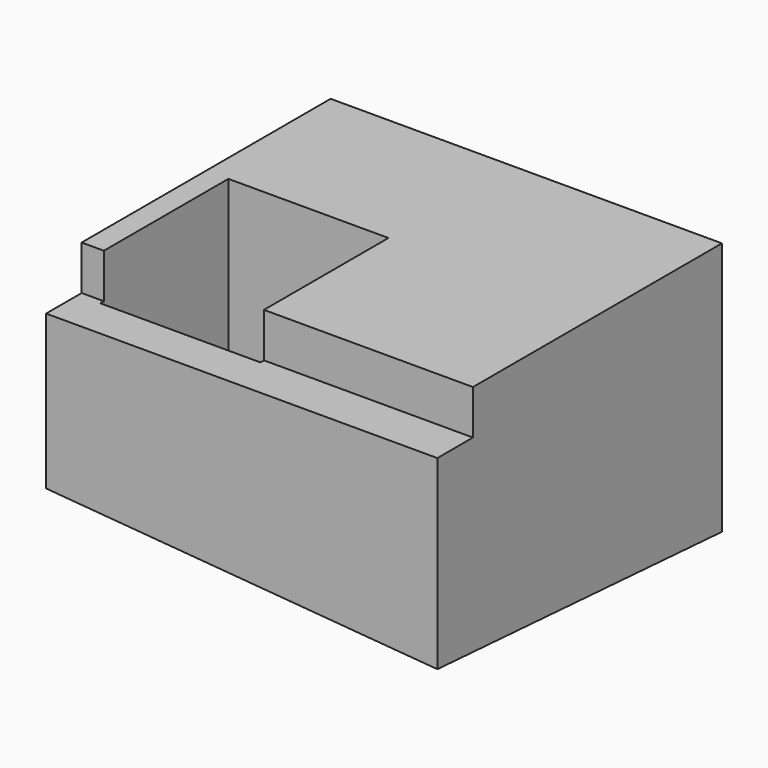
from build123d import *

# Parameters (mm, degrees)
BOX003_W               = 24
BOX003_H               = 23
BOX003_DEPTH           = 10
BOX003_ROLL_ANGLE      = -3.799965
BOX003_PITCH_ANGLE     = 4.646714
BOX003_PLACEMENT_ANGLE = -0.15423
BOX002_W               = 22
BOX002_H               = 2.5
BOX002_DEPTH           = 2.5
BOX001_W               = 9
BOX001_H               = 9
BOX001_DEPTH           = 11
BOX_W                  = 22
BOX_H                  = 20
BOX_DEPTH              = 15


with BuildPart() as cube003:
    # Box003 → Box003 (new body)
    with BuildSketch(Plane.XY):
        with Locations((12, 11.5)):
            Rectangle(BOX003_W, BOX003_H)
    extrude(amount=BOX003_DEPTH)


with BuildPart() as cube003_1:
    # Box003 roll: moved
    add(cube003.part.rotate(Axis((0, 0, 0), (1, 0, 0)), BOX003_ROLL_ANGLE))


with BuildPart() as cube003_2:
    # Box003 pitch: moved
    add(cube003_1.part.rotate(Axis((0, 0, 0), (0, 1, 0)), BOX003_PITCH_ANGLE))


with BuildPart() as cube003_3:
    # Box003 placement: moved
    add(cube003_2.part.moved(Location((-1, -2, -6))).rotate(Axis((-1, -2, -6), (0, 0, 1)), BOX003_PLACEMENT_ANGLE))


with BuildPart() as cube002:
    # Box002 → Box002 (new body)
    with BuildSketch(Plane.XY.offset(12.5)):
        with Locations((11, 1.25)):
            Rectangle(BOX002_W, BOX002_H)
    extrude(amount=BOX002_DEPTH)


with BuildPart() as cube001:
    # Box001 → Box001 (new body)
    with BuildSketch(Plane(origin=(1.25, 2.25, 4), x_dir=(1, 0, 0), z_dir=(0, 0, 1))):
        with Locations((4.5, 4.5)):
            Rectangle(BOX001_W, BOX001_H)
    extrude(amount=BOX001_DEPTH)


with BuildPart() as cut002:
    # Box → Box (new body)
    with BuildSketch(Plane.XY):
        with Locations((11, 10)):
            Rectangle(BOX_W, BOX_H)
    extrude(amount=BOX_DEPTH)

    # Cut: cut Cube001
    add(cube001.part, mode=Mode.SUBTRACT)

    # Cut001: cut Cube002
    add(cube002.part, mode=Mode.SUBTRACT)

    # Cut002: cut Cube003
    add(cube003_3.part, mode=Mode.SUBTRACT)


solid = cut002.part
